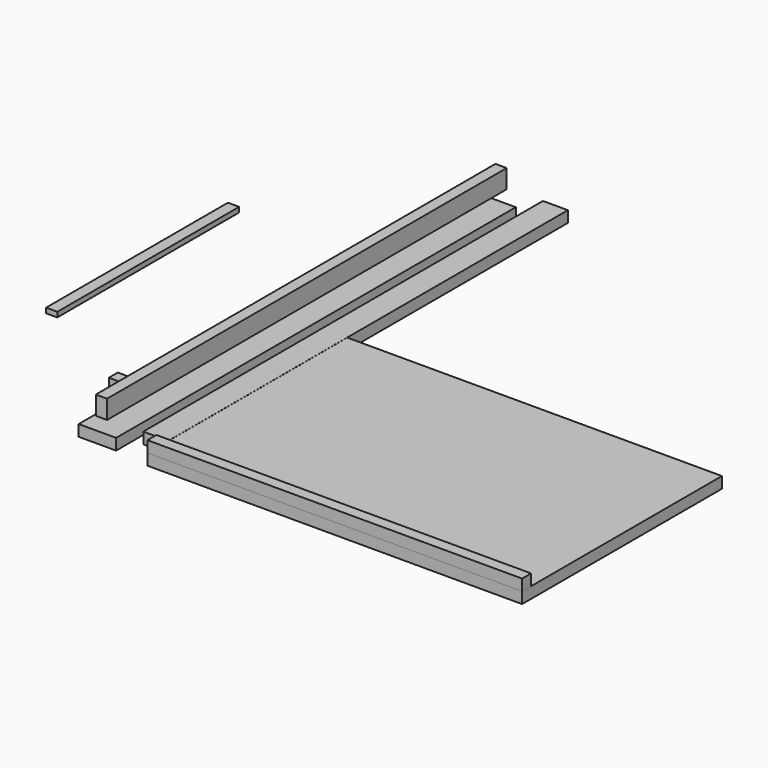
from build123d import *

# Parameters (mm, degrees)
F0_W      = 60
F0_H      = 800
F1_DEPTH  = 18
F2_W      = 40
F2_H      = 800
F3_DEPTH  = 18
F4_W      = 800
F4_H      = 30
F5_DEPTH  = 18
F6_W      = 300
F6_H      = 60
F7_DEPTH  = 18
F8_W      = 600
F8_H      = 400
F9_DEPTH  = 18
F10_W     = 600
F10_H     = 18
F11_DEPTH = 18
F12_W     = 18
F12_H     = 364
F13_DEPTH = 8


with BuildPart() as f1:
    # F0 (on Top) → F1 (new body)
    with BuildSketch(Plane.XY):
        with Locations((-14.458162, 217.299924)):
            Rectangle(F0_W, F0_H)
    extrude(amount=F1_DEPTH)


with BuildPart() as f3:
    # F2 (on Top) → F3 (new body)
    with BuildSketch(Plane.XY):
        with Locations((51.454826, 251.748741)):
            Rectangle(F2_W, F2_H)
    extrude(amount=F3_DEPTH)


with BuildPart() as f5:
    # F4 (on Right) → F5 (new body)
    with BuildSketch(Plane.YZ):
        with Locations((196.025786, 67.664795)):
            Rectangle(F4_W, F4_H)
    extrude(amount=F5_DEPTH)


with BuildPart() as f7:
    # F6 (on Front) → F7 (new body)
    with BuildSketch(Plane.XZ):
        with Locations((22.019405, -40.799229)):
            Rectangle(F6_W, F6_H)
    extrude(amount=F7_DEPTH)


with BuildPart() as f9:
    # F8 (on Top) → F9 (new body)
    with BuildSketch(Plane.XY):
        with Locations((371.630521, 9.885475)):
            Rectangle(F8_W, F8_H)
    extrude(amount=F9_DEPTH)


with BuildPart() as f11:
    # F10 (on face) → F11 (new body)
    with BuildSketch(Plane.XY.offset(18)):
        with Locations((371.630521, -181.114525)):
            Rectangle(F10_W, F10_H)
    extrude(amount=F11_DEPTH)


with BuildPart() as f13:
    # F12 (on Top) → F13 (new body)
    with BuildSketch(Plane.XY):
        with Locations((-276.199482, 234.986461)):
            Rectangle(F12_W, F12_H)
    extrude(amount=F13_DEPTH)


solid = Compound([f1.part, f3.part, f5.part, f7.part, f9.part, f11.part, f13.part])
